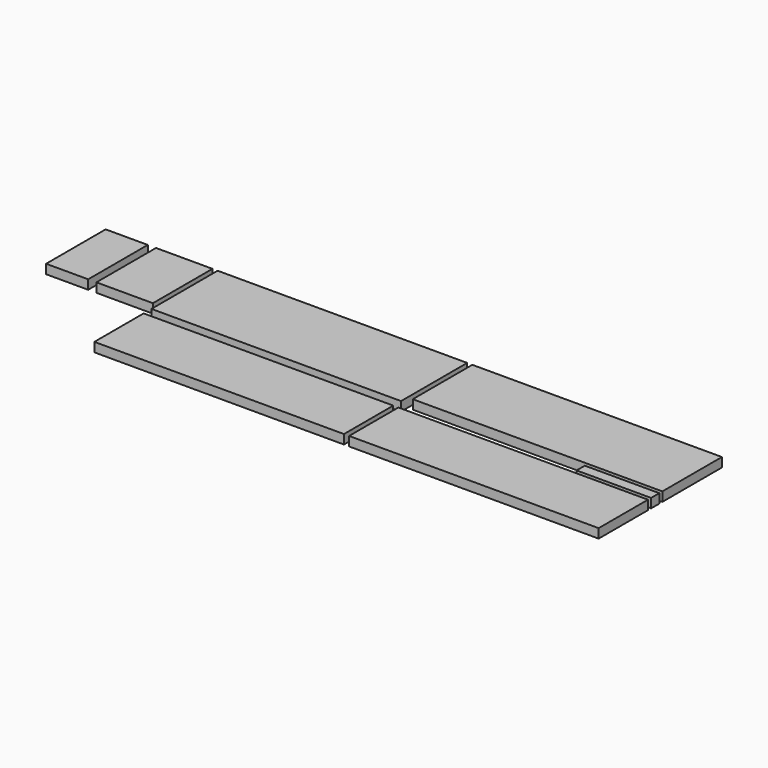
from build123d import *

# Parameters (mm, degrees)
F0_W     = 486
F0_H     = 145
F0_H_2   = 161
F0_H_3   = 120
F0_W_2   = 110
F0_W_3   = 82
F0_W_4   = 145
F0_H_4   = 20
F1_DEPTH = 18


with BuildPart() as f1:
    # F0 (on Top) → F1 (new body)
    with BuildSketch(Plane.XY):
        with Locations((357, 77.5)):
            Rectangle(F0_W, F0_H)
        with Locations((-139, 69.5)):
            Rectangle(F0_W, F0_H_2)
        with Locations((357, -90)):
            Rectangle(F0_W, F0_H_3)
        with Locations((-139, -90)):
            Rectangle(F0_W, F0_H_3)
        with Locations((-447, 77.5)):
            Rectangle(F0_W_2, F0_H)
        with Locations((-559, 77.5)):
            Rectangle(F0_W_3, F0_H)
        with Locations((527.5, -12.5)):
            Rectangle(F0_W_4, F0_H_4)
    extrude(amount=F1_DEPTH)


solid = f1.part
